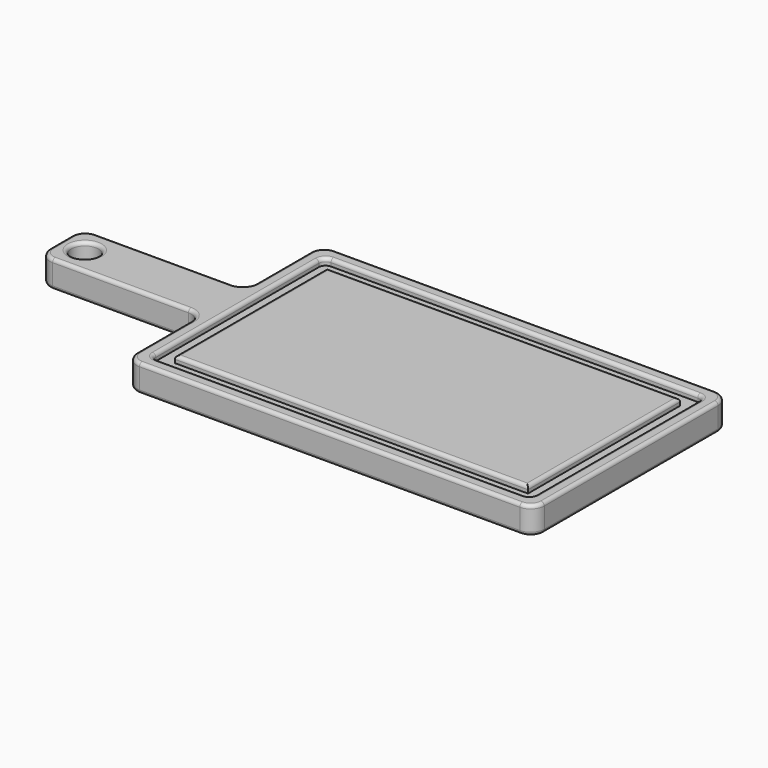
from build123d import *

# Parameters (mm, degrees)
F0_W     = 152.4
F0_H     = 50.8
F1_DEPTH = 25.4
F2_R     = 12.7
F3_DEPTH = 25.4
F5_DEPTH = 6.35
F6_R     = 6.35
F7_R     = 12.7
F8_R     = 3.175


with BuildPart() as f1:
    # F0 (on Top) → F1 (new body)
    with BuildSketch(Plane.XY):
        Polygon((0, 80.7383954525), (0, -8.1616045475), (381, -8.1616045475), (381, 220.4383954525), (0, 220.4383954525), (0, 131.5383954525), align=None)
        with Locations((-76.2, 106.1383954525)):
            Rectangle(F0_W, F0_H)
    extrude(amount=F1_DEPTH)

    # F2 (on face) → F3 (cut)
    with BuildSketch(Plane.XY.offset(25.4)):
        with Locations((-129.8905164003, 106.1383954525)):
            Circle(F2_R)
    extrude(amount=-F3_DEPTH, mode=Mode.SUBTRACT)

    # F4 (on face) → F5 (cut)
    with BuildSketch(Plane.XY.offset(25.4)):
        Polygon((12.6999959469, 80.7383954525), (12.6999959469, 4.5383913994), (368.3000040531, 4.5383913994), (368.3000040531, 207.7383995056), (12.6999959469, 207.7383995056), (12.6999959469, 131.5383954525), align=None)
        Polygon((25.4000023127, 80.7383954525), (25.4000023127, 131.5383954525), (25.4000023127, 195.0383931398), (355.5999976873, 195.0383931398), (355.5999976873, 17.2383977652), (25.4000023127, 17.2383977652), align=None, mode=Mode.SUBTRACT)
    extrude(amount=-F5_DEPTH, mode=Mode.SUBTRACT)

    # F6
    f6_edges = [f1.edges().sort_by_distance(p)[0] for p in [
        (12.699996, 207.7384, 22.225),
        (368.300004, 207.7384, 22.225),
        (12.699996, 4.538391, 22.225),
        (368.300004, 4.538391, 22.225),
    ]]
    fillet(f6_edges, radius=F6_R)

    # F7
    f7_edges = [f1.edges().sort_by_distance(p)[0] for p in [
        (0, -8.161605, 12.7),
        (0, 80.738395, 12.7),
        (-152.4, 80.738395, 12.7),
        (-152.4, 131.538395, 12.7),
        (0, 131.538395, 12.7),
        (0, 220.438395, 12.7),
        (381, 220.438395, 12.7),
        (381, -8.161605, 12.7),
    ]]
    fillet(f7_edges, radius=F7_R)

    # F8
    f8_edges = [f1.edges().sort_by_distance(p)[0] for p in [
        (190.5, 17.238398, 25.4),
        (25.400002, 106.138395, 25.4),
        (190.5, 195.038393, 25.4),
        (355.599998, 106.138395, 25.4),
        (0, 175.988395, 25.4),
        (3.719744, 216.718652, 25.4),
        (-3.719744, 135.258139, 25.4),
        (190.5, 220.438395, 25.4),
        (-76.2, 131.538395, 25.4),
        (377.280256, 216.718652, 25.4),
        (-148.680256, 127.818652, 25.4),
        (381, 106.138395, 25.4),
        (-152.4, 106.138395, 25.4),
        (377.280256, -4.441861, 25.4),
        (-148.680256, 84.458139, 25.4),
        (190.5, -8.161605, 25.4),
        (-76.2, 80.738395, 25.4),
        (3.719744, -4.441861, 25.4),
        (-3.719744, 77.018652, 25.4),
        (0, 36.288395, 25.4),
        (190.5, 4.538391, 25.4),
        (14.559868, 6.398263, 25.4),
        (366.440132, 6.398263, 25.4),
        (12.699996, 106.138395, 25.4),
        (368.300004, 106.138395, 25.4),
        (14.559868, 205.878528, 25.4),
        (366.440132, 205.878528, 25.4),
        (190.5, 207.7384, 25.4),
        (-142.590516, 106.138395, 25.4),
        (0, 175.988395, 0),
        (3.719744, 216.718652, 0),
        (-3.719744, 135.258139, 0),
        (190.5, 220.438395, 0),
        (-76.2, 131.538395, 0),
        (377.280256, 216.718652, 0),
        (-148.680256, 127.818652, 0),
        (381, 106.138395, 0),
        (-152.4, 106.138395, 0),
        (377.280256, -4.441861, 0),
        (-148.680256, 84.458139, 0),
        (190.5, -8.161605, 0),
        (-76.2, 80.738395, 0),
        (3.719744, -4.441861, 0),
        (-3.719744, 77.018652, 0),
        (0, 36.288395, 0),
        (-142.590516, 106.138395, 0),
    ]]
    fillet(f8_edges, radius=F8_R)


solid = f1.part
